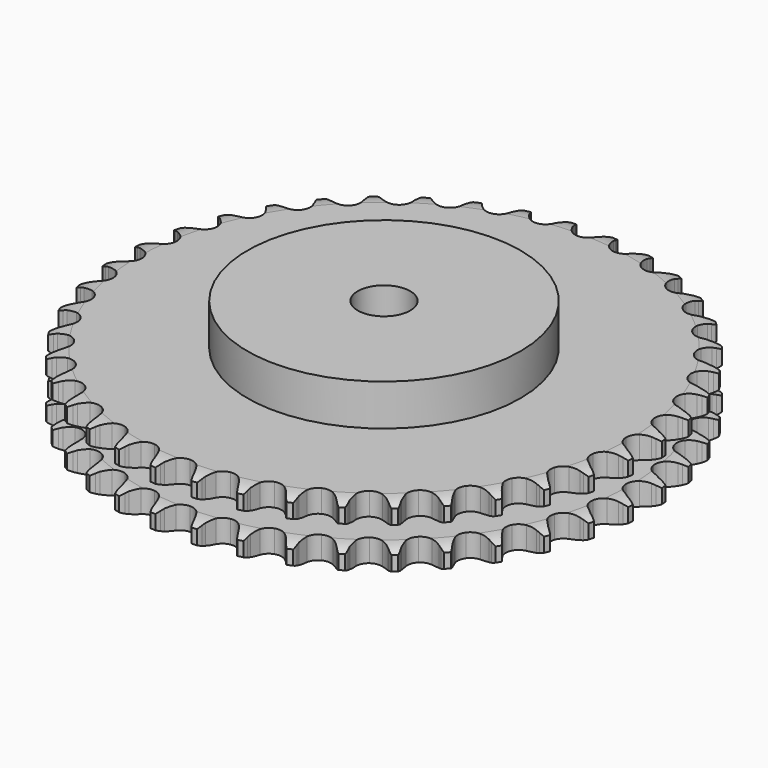
from build123d import *

# Parameters (mm, degrees)
PAD_DEPTH         = 30.3
SKETCH001_R       = 65
PAD001_DEPTH      = 50
SKETCH002_R       = 12.5
POCKET_DEPTH      = 0.001
POCKET_DEPTH_BACK = 50.001


with BuildPart() as part:
    # Sprocket → Pad (new body)
    with BuildSketch(Plane.XY):
        with BuildLine():
            ThreePointArc((-10.000443, 127.067676), (-8.616293, 125.369452), (-7.644652, 123.405845))
            Line((-7.644652, 123.405845), (-7.056217, 121.780312))
            ThreePointArc((-7.056217, 121.780312), (-6.126662, 119.69739), (-4.906159, 117.770471))
            ThreePointArc((-4.906159, 117.770471), (-2.747075, 115.950742), (0, 115.297563))
            ThreePointArc((0, 115.297563), (2.747075, 115.950742), (4.906159, 117.770471))
            ThreePointArc((4.906159, 117.770471), (6.126662, 119.69739), (7.056217, 121.780312))
            Line((7.056217, 121.780312), (7.644652, 123.405845))
            ThreePointArc((7.644652, 123.405845), (8.616293, 125.369452), (10.000443, 127.067676))
            ThreePointArc((10.000443, 127.067676), (11.101891, 125.173831), (11.754394, 123.082401))
            Line((11.754394, 123.082401), (12.081294, 121.38483))
            ThreePointArc((12.081294, 121.38483), (12.673565, 119.182137), (13.577604, 117.088014))
            ThreePointArc((13.577604, 117.088014), (15.425439, 114.952933), (18.036513, 113.878059))
            ThreePointArc((18.036513, 113.878059), (20.851946, 114.093459), (23.269117, 115.553029))
            Line((23.269117, 115.553029), (26.019982, 119.177159))
            ThreePointArc((26.019982, 119.177159), (26.416953, 119.945358), (26.855461, 120.690627))
            ThreePointArc((26.855461, 120.690627), (28.122315, 122.478061), (29.755085, 123.938849))
            ThreePointArc((29.755085, 123.938849), (30.54671, 121.896015), (30.864007, 119.728261))
            Line((30.864007, 119.728261), (30.921325, 118.000451))
            ThreePointArc((30.921325, 118.000451), (31.161726, 115.732225), (31.727042, 113.522461))
            ThreePointArc((31.727042, 113.522461), (33.218127, 111.124602), (35.628906, 109.654499))
            ThreePointArc((35.628906, 109.654499), (38.443373, 109.426816), (41.059112, 110.490288))
            Line((41.059112, 110.490288), (44.343048, 113.639468))
            ThreePointArc((44.343048, 113.639468), (44.855304, 114.33611), (45.404999, 115.003606))
            ThreePointArc((45.404999, 115.003606), (46.935873, 116.570853), (48.777058, 117.758235))
            ThreePointArc((48.777058, 117.758235), (49.239367, 115.616715), (49.213646, 113.426013))
            Line((49.213646, 113.426013), (48.999969, 111.710508))
            ThreePointArc((48.999969, 111.710508), (48.882582, 109.432601), (49.095255, 107.161608))
            ThreePointArc((49.095255, 107.161608), (50.192874, 104.560014), (52.343998, 102.730881))
            ThreePointArc((52.343998, 102.730881), (55.088197, 102.065722), (57.838095, 102.706909))
            Line((57.838095, 102.706909), (61.574241, 105.303597))
            ThreePointArc((61.574241, 105.303597), (62.189169, 105.911527), (62.836516, 106.484814))
            ThreePointArc((62.836516, 106.484814), (64.593713, 107.793285), (66.597978, 108.678023))
            ThreePointArc((66.597978, 108.678023), (66.719588, 106.490547), (66.351482, 104.33084))
            Line((66.351482, 104.33084), (65.872072, 102.669883))
            ThreePointArc((65.872072, 102.669883), (65.399787, 100.438384), (65.25458, 98.162081))
            ThreePointArc((65.25458, 98.162081), (65.931706, 95.420811), (67.770207, 93.277688))
            ThreePointArc((67.770207, 93.277688), (70.376566, 92.191431), (73.192913, 92.394545))
            Line((73.192913, 92.394545), (77.289271, 94.374802))
            ThreePointArc((77.289271, 94.374802), (77.99173, 94.879051), (78.720789, 95.344012))
            ThreePointArc((78.720789, 95.344012), (80.661042, 96.361487), (82.779035, 96.921797))
            ThreePointArc((82.779035, 96.921797), (82.556951, 94.742229), (81.855525, 92.666695))
            Line((81.855525, 92.666695), (81.122186, 91.101184))
            ThreePointArc((81.122186, 91.101184), (80.306632, 88.97104), (79.80712, 86.745478))
            ThreePointArc((79.80712, 86.745478), (80.047081, 83.932031), (81.527689, 81.527689))
            ThreePointArc((81.527689, 81.527689), (83.932031, 80.047081), (86.745478, 79.80712))
            Line((86.745478, 79.80712), (91.101184, 81.122186))
            ThreePointArc((91.101184, 81.122186), (91.873876, 81.510338), (92.666695, 81.855525))
            ThreePointArc((92.666695, 81.855525), (94.742229, 82.556951), (96.921797, 82.779035))
            ThreePointArc((96.921797, 82.779035), (96.361487, 80.661042), (95.344012, 78.720789))
            Line((95.344012, 78.720789), (94.374802, 77.289271))
            ThreePointArc((94.374802, 77.289271), (93.236061, 75.312934), (92.394545, 73.192913))
            ThreePointArc((92.394545, 73.192913), (92.191431, 70.376566), (93.277688, 67.770207))
            ThreePointArc((93.277688, 67.770207), (95.420811, 65.931706), (98.162081, 65.25458))
            Line((98.162081, 65.25458), (102.669883, 65.872072))
            ThreePointArc((102.669883, 65.872072), (103.493782, 66.13457), (104.33084, 66.351482))
            ThreePointArc((104.33084, 66.351482), (106.490547, 66.719588), (108.678023, 66.597978))
            ThreePointArc((108.678023, 66.597978), (107.793285, 64.593713), (106.484814, 62.836516))
            Line((106.484814, 62.836516), (105.303597, 61.574241))
            ThreePointArc((105.303597, 61.574241), (103.869709, 59.800373), (102.706909, 57.838095))
            ThreePointArc((102.706909, 57.838095), (102.065722, 55.088197), (102.730881, 52.343998))
            ThreePointArc((102.730881, 52.343998), (104.560014, 50.192874), (107.161608, 49.095255))
            Line((107.161608, 49.095255), (111.710508, 48.999969))
            ThreePointArc((111.710508, 48.999969), (112.565328, 49.130349), (113.426013, 49.213646))
            ThreePointArc((113.426013, 49.213646), (115.616715, 49.239367), (117.758235, 48.777058))
            ThreePointArc((117.758235, 48.777058), (116.570853, 46.935873), (115.003606, 45.404999))
            Line((115.003606, 45.404999), (113.639468, 44.343048))
            ThreePointArc((113.639468, 44.343048), (111.94574, 42.815329), (110.490288, 41.059112))
            ThreePointArc((110.490288, 41.059112), (109.426816, 38.443373), (109.654499, 35.628906))
            ThreePointArc((109.654499, 35.628906), (111.124602, 33.218127), (113.522461, 31.727042))
            Line((113.522461, 31.727042), (118.000451, 30.921325))
            ThreePointArc((118.000451, 30.921325), (118.865142, 30.916376), (119.728261, 30.864007))
            ThreePointArc((119.728261, 30.864007), (121.896015, 30.54671), (123.938849, 29.755085))
            ThreePointArc((123.938849, 29.755085), (122.478061, 28.122315), (120.690627, 26.855461))
            Line((120.690627, 26.855461), (119.177159, 26.019982))
            ThreePointArc((119.177159, 26.019982), (117.265295, 24.776029), (115.553029, 23.269117))
            ThreePointArc((115.553029, 23.269117), (114.093459, 20.851946), (113.878059, 18.036513))
            ThreePointArc((113.878059, 18.036513), (114.952933, 15.425439), (117.088014, 13.577604))
            Line((117.088014, 13.577604), (121.38483, 12.081294))
            ThreePointArc((121.38483, 12.081294), (122.238102, 11.941139), (123.082401, 11.754394))
            ThreePointArc((123.082401, 11.754394), (125.173831, 11.101891), (127.067676, 10.000443))
            ThreePointArc((127.067676, 10.000443), (125.369452, 8.616293), (123.405845, 7.644652))
            Line((123.405845, 7.644652), (121.780312, 7.056217))
            ThreePointArc((121.780312, 7.056217), (119.69739, 6.126662), (117.770471, 4.906159))
            ThreePointArc((117.770471, 4.906159), (115.950742, 2.747075), (115.297563, 0))
            ThreePointArc((115.297563, 0), (115.950742, -2.747075), (117.770471, -4.906159))
            Line((117.770471, -4.906159), (121.780312, -7.056217))
            ThreePointArc((121.780312, -7.056217), (122.601154, -7.328128), (123.405845, -7.644652))
            ThreePointArc((123.405845, -7.644652), (125.369452, -8.616293), (127.067676, -10.000443))
            ThreePointArc((127.067676, -10.000443), (125.173831, -11.101891), (123.082401, -11.754394))
            Line((123.082401, -11.754394), (121.38483, -12.081294))
            ThreePointArc((121.38483, -12.081294), (119.182137, -12.673565), (117.088014, -13.577604))
            ThreePointArc((117.088014, -13.577604), (114.952933, -15.425439), (113.878059, -18.036513))
            ThreePointArc((113.878059, -18.036513), (114.093459, -20.851946), (115.553029, -23.269117))
            Line((115.553029, -23.269117), (119.177159, -26.019982))
            ThreePointArc((119.177159, -26.019982), (119.945358, -26.416953), (120.690627, -26.855461))
            ThreePointArc((120.690627, -26.855461), (122.478061, -28.122315), (123.938849, -29.755085))
            ThreePointArc((123.938849, -29.755085), (121.896015, -30.54671), (119.728261, -30.864007))
            Line((119.728261, -30.864007), (118.000451, -30.921325))
            ThreePointArc((118.000451, -30.921325), (115.732225, -31.161726), (113.522461, -31.727042))
            ThreePointArc((113.522461, -31.727042), (111.124602, -33.218127), (109.654499, -35.628906))
            ThreePointArc((109.654499, -35.628906), (109.426816, -38.443373), (110.490288, -41.059112))
            Line((110.490288, -41.059112), (113.639468, -44.343048))
            ThreePointArc((113.639468, -44.343048), (114.33611, -44.855304), (115.003606, -45.404999))
            ThreePointArc((115.003606, -45.404999), (116.570853, -46.935873), (117.758235, -48.777058))
            ThreePointArc((117.758235, -48.777058), (115.616715, -49.239367), (113.426013, -49.213646))
            Line((113.426013, -49.213646), (111.710508, -48.999969))
            ThreePointArc((111.710508, -48.999969), (109.432601, -48.882582), (107.161608, -49.095255))
            ThreePointArc((107.161608, -49.095255), (104.560014, -50.192874), (102.730881, -52.343998))
            ThreePointArc((102.730881, -52.343998), (102.065722, -55.088197), (102.706909, -57.838095))
            Line((102.706909, -57.838095), (105.303597, -61.574241))
            ThreePointArc((105.303597, -61.574241), (105.911527, -62.189169), (106.484814, -62.836516))
            ThreePointArc((106.484814, -62.836516), (107.793285, -64.593713), (108.678023, -66.597978))
            ThreePointArc((108.678023, -66.597978), (106.490547, -66.719588), (104.33084, -66.351482))
            Line((104.33084, -66.351482), (102.669883, -65.872072))
            ThreePointArc((102.669883, -65.872072), (100.438384, -65.399787), (98.162081, -65.25458))
            ThreePointArc((98.162081, -65.25458), (95.420811, -65.931706), (93.277688, -67.770207))
            ThreePointArc((93.277688, -67.770207), (92.191431, -70.376566), (92.394545, -73.192913))
            Line((92.394545, -73.192913), (94.374802, -77.289271))
            ThreePointArc((94.374802, -77.289271), (94.879051, -77.99173), (95.344012, -78.720789))
            ThreePointArc((95.344012, -78.720789), (96.361487, -80.661042), (96.921797, -82.779035))
            ThreePointArc((96.921797, -82.779035), (94.742229, -82.556951), (92.666695, -81.855525))
            Line((92.666695, -81.855525), (91.101184, -81.122186))
            ThreePointArc((91.101184, -81.122186), (88.97104, -80.306632), (86.745478, -79.80712))
            ThreePointArc((86.745478, -79.80712), (83.932031, -80.047081), (81.527689, -81.527689))
            ThreePointArc((81.527689, -81.527689), (80.047081, -83.932031), (79.80712, -86.745478))
            Line((79.80712, -86.745478), (81.122186, -91.101184))
            ThreePointArc((81.122186, -91.101184), (81.510338, -91.873876), (81.855525, -92.666695))
            ThreePointArc((81.855525, -92.666695), (82.556951, -94.742229), (82.779035, -96.921797))
            ThreePointArc((82.779035, -96.921797), (80.661042, -96.361487), (78.720789, -95.344012))
            Line((78.720789, -95.344012), (77.289271, -94.374802))
            ThreePointArc((77.289271, -94.374802), (75.312934, -93.236061), (73.192913, -92.394545))
            ThreePointArc((73.192913, -92.394545), (70.376566, -92.191431), (67.770207, -93.277688))
            ThreePointArc((67.770207, -93.277688), (65.931706, -95.420811), (65.25458, -98.162081))
            Line((65.25458, -98.162081), (65.872072, -102.669883))
            ThreePointArc((65.872072, -102.669883), (66.13457, -103.493782), (66.351482, -104.33084))
            ThreePointArc((66.351482, -104.33084), (66.719588, -106.490547), (66.597978, -108.678023))
            ThreePointArc((66.597978, -108.678023), (64.593713, -107.793285), (62.836516, -106.484814))
            Line((62.836516, -106.484814), (61.574241, -105.303597))
            ThreePointArc((61.574241, -105.303597), (59.800373, -103.869709), (57.838095, -102.706909))
            ThreePointArc((57.838095, -102.706909), (55.088197, -102.065722), (52.343998, -102.730881))
            ThreePointArc((52.343998, -102.730881), (50.192874, -104.560014), (49.095255, -107.161608))
            Line((49.095255, -107.161608), (48.999969, -111.710508))
            ThreePointArc((48.999969, -111.710508), (49.130349, -112.565328), (49.213646, -113.426013))
            ThreePointArc((49.213646, -113.426013), (49.239367, -115.616715), (48.777058, -117.758235))
            ThreePointArc((48.777058, -117.758235), (46.935873, -116.570853), (45.404999, -115.003606))
            Line((45.404999, -115.003606), (44.343048, -113.639468))
            ThreePointArc((44.343048, -113.639468), (42.815329, -111.94574), (41.059112, -110.490288))
            ThreePointArc((41.059112, -110.490288), (38.443373, -109.426816), (35.628906, -109.654499))
            ThreePointArc((35.628906, -109.654499), (33.218127, -111.124602), (31.727042, -113.522461))
            Line((31.727042, -113.522461), (30.921325, -118.000451))
            ThreePointArc((30.921325, -118.000451), (30.916376, -118.865142), (30.864007, -119.728261))
            ThreePointArc((30.864007, -119.728261), (30.54671, -121.896015), (29.755085, -123.938849))
            ThreePointArc((29.755085, -123.938849), (28.122315, -122.478061), (26.855461, -120.690627))
            Line((26.855461, -120.690627), (26.019982, -119.177159))
            ThreePointArc((26.019982, -119.177159), (24.776029, -117.265295), (23.269117, -115.553029))
            ThreePointArc((23.269117, -115.553029), (20.851946, -114.093459), (18.036513, -113.878059))
            ThreePointArc((18.036513, -113.878059), (15.425439, -114.952933), (13.577604, -117.088014))
            Line((13.577604, -117.088014), (12.081294, -121.38483))
            ThreePointArc((12.081294, -121.38483), (11.941139, -122.238102), (11.754394, -123.082401))
            ThreePointArc((11.754394, -123.082401), (11.101891, -125.173831), (10.000443, -127.067676))
            ThreePointArc((10.000443, -127.067676), (8.616293, -125.369452), (7.644652, -123.405845))
            Line((7.644652, -123.405845), (7.056217, -121.780312))
            ThreePointArc((7.056217, -121.780312), (6.126662, -119.69739), (4.906159, -117.770471))
            ThreePointArc((4.906159, -117.770471), (2.747075, -115.950742), (0, -115.297563))
            ThreePointArc((0, -115.297563), (-2.747075, -115.950742), (-4.906159, -117.770471))
            Line((-4.906159, -117.770471), (-7.056217, -121.780312))
            ThreePointArc((-7.056217, -121.780312), (-7.328128, -122.601154), (-7.644652, -123.405845))
            ThreePointArc((-7.644652, -123.405845), (-8.616293, -125.369452), (-10.000443, -127.067676))
            ThreePointArc((-10.000443, -127.067676), (-11.101891, -125.173831), (-11.754394, -123.082401))
            Line((-11.754394, -123.082401), (-12.081294, -121.38483))
            ThreePointArc((-12.081294, -121.38483), (-12.673565, -119.182137), (-13.577604, -117.088014))
            ThreePointArc((-13.577604, -117.088014), (-15.425439, -114.952933), (-18.036513, -113.878059))
            ThreePointArc((-18.036513, -113.878059), (-20.851946, -114.093459), (-23.269117, -115.553029))
            Line((-23.269117, -115.553029), (-26.019982, -119.177159))
            ThreePointArc((-26.019982, -119.177159), (-26.416953, -119.945358), (-26.855461, -120.690627))
            ThreePointArc((-26.855461, -120.690627), (-28.122315, -122.478061), (-29.755085, -123.938849))
            ThreePointArc((-29.755085, -123.938849), (-30.54671, -121.896015), (-30.864007, -119.728261))
            Line((-30.864007, -119.728261), (-30.921325, -118.000451))
            ThreePointArc((-30.921325, -118.000451), (-31.161726, -115.732225), (-31.727042, -113.522461))
            ThreePointArc((-31.727042, -113.522461), (-33.218127, -111.124602), (-35.628906, -109.654499))
            ThreePointArc((-35.628906, -109.654499), (-38.443373, -109.426816), (-41.059112, -110.490288))
            Line((-41.059112, -110.490288), (-44.343048, -113.639468))
            ThreePointArc((-44.343048, -113.639468), (-44.855304, -114.33611), (-45.404999, -115.003606))
            ThreePointArc((-45.404999, -115.003606), (-46.935873, -116.570853), (-48.777058, -117.758235))
            ThreePointArc((-48.777058, -117.758235), (-49.239367, -115.616715), (-49.213646, -113.426013))
            Line((-49.213646, -113.426013), (-48.999969, -111.710508))
            ThreePointArc((-48.999969, -111.710508), (-48.882582, -109.432601), (-49.095255, -107.161608))
            ThreePointArc((-49.095255, -107.161608), (-50.192874, -104.560014), (-52.343998, -102.730881))
            ThreePointArc((-52.343998, -102.730881), (-55.088197, -102.065722), (-57.838095, -102.706909))
            Line((-57.838095, -102.706909), (-61.574241, -105.303597))
            ThreePointArc((-61.574241, -105.303597), (-62.189169, -105.911527), (-62.836516, -106.484814))
            ThreePointArc((-62.836516, -106.484814), (-64.593713, -107.793285), (-66.597978, -108.678023))
            ThreePointArc((-66.597978, -108.678023), (-66.719588, -106.490547), (-66.351482, -104.33084))
            Line((-66.351482, -104.33084), (-65.872072, -102.669883))
            ThreePointArc((-65.872072, -102.669883), (-65.399787, -100.438384), (-65.25458, -98.162081))
            ThreePointArc((-65.25458, -98.162081), (-65.931706, -95.420811), (-67.770207, -93.277688))
            ThreePointArc((-67.770207, -93.277688), (-70.376566, -92.191431), (-73.192913, -92.394545))
            Line((-73.192913, -92.394545), (-77.289271, -94.374802))
            ThreePointArc((-77.289271, -94.374802), (-77.99173, -94.879051), (-78.720789, -95.344012))
            ThreePointArc((-78.720789, -95.344012), (-80.661042, -96.361487), (-82.779035, -96.921797))
            ThreePointArc((-82.779035, -96.921797), (-82.556951, -94.742229), (-81.855525, -92.666695))
            Line((-81.855525, -92.666695), (-81.122186, -91.101184))
            ThreePointArc((-81.122186, -91.101184), (-80.306632, -88.97104), (-79.80712, -86.745478))
            ThreePointArc((-79.80712, -86.745478), (-80.047081, -83.932031), (-81.527689, -81.527689))
            ThreePointArc((-81.527689, -81.527689), (-83.932031, -80.047081), (-86.745478, -79.80712))
            Line((-86.745478, -79.80712), (-91.101184, -81.122186))
            ThreePointArc((-91.101184, -81.122186), (-91.873876, -81.510338), (-92.666695, -81.855525))
            ThreePointArc((-92.666695, -81.855525), (-94.742229, -82.556951), (-96.921797, -82.779035))
            ThreePointArc((-96.921797, -82.779035), (-96.361487, -80.661042), (-95.344012, -78.720789))
            Line((-95.344012, -78.720789), (-94.374802, -77.289271))
            ThreePointArc((-94.374802, -77.289271), (-93.236061, -75.312934), (-92.394545, -73.192913))
            ThreePointArc((-92.394545, -73.192913), (-92.191431, -70.376566), (-93.277688, -67.770207))
            ThreePointArc((-93.277688, -67.770207), (-95.420811, -65.931706), (-98.162081, -65.25458))
            Line((-98.162081, -65.25458), (-102.669883, -65.872072))
            ThreePointArc((-102.669883, -65.872072), (-103.493782, -66.13457), (-104.33084, -66.351482))
            ThreePointArc((-104.33084, -66.351482), (-106.490547, -66.719588), (-108.678023, -66.597978))
            ThreePointArc((-108.678023, -66.597978), (-107.793285, -64.593713), (-106.484814, -62.836516))
            Line((-106.484814, -62.836516), (-105.303597, -61.574241))
            ThreePointArc((-105.303597, -61.574241), (-103.869709, -59.800373), (-102.706909, -57.838095))
            ThreePointArc((-102.706909, -57.838095), (-102.065722, -55.088197), (-102.730881, -52.343998))
            ThreePointArc((-102.730881, -52.343998), (-104.560014, -50.192874), (-107.161608, -49.095255))
            Line((-107.161608, -49.095255), (-111.710508, -48.999969))
            ThreePointArc((-111.710508, -48.999969), (-112.565328, -49.130349), (-113.426013, -49.213646))
            ThreePointArc((-113.426013, -49.213646), (-115.616715, -49.239367), (-117.758235, -48.777058))
            ThreePointArc((-117.758235, -48.777058), (-116.570853, -46.935873), (-115.003606, -45.404999))
            Line((-115.003606, -45.404999), (-113.639468, -44.343048))
            ThreePointArc((-113.639468, -44.343048), (-111.94574, -42.815329), (-110.490288, -41.059112))
            ThreePointArc((-110.490288, -41.059112), (-109.426816, -38.443373), (-109.654499, -35.628906))
            ThreePointArc((-109.654499, -35.628906), (-111.124602, -33.218127), (-113.522461, -31.727042))
            Line((-113.522461, -31.727042), (-118.000451, -30.921325))
            ThreePointArc((-118.000451, -30.921325), (-118.865142, -30.916376), (-119.728261, -30.864007))
            ThreePointArc((-119.728261, -30.864007), (-121.896015, -30.54671), (-123.938849, -29.755085))
            ThreePointArc((-123.938849, -29.755085), (-122.478061, -28.122315), (-120.690627, -26.855461))
            Line((-120.690627, -26.855461), (-119.177159, -26.019982))
            ThreePointArc((-119.177159, -26.019982), (-117.265295, -24.776029), (-115.553029, -23.269117))
            ThreePointArc((-115.553029, -23.269117), (-114.093459, -20.851946), (-113.878059, -18.036513))
            ThreePointArc((-113.878059, -18.036513), (-114.952933, -15.425439), (-117.088014, -13.577604))
            Line((-117.088014, -13.577604), (-121.38483, -12.081294))
            ThreePointArc((-121.38483, -12.081294), (-122.238102, -11.941139), (-123.082401, -11.754394))
            ThreePointArc((-123.082401, -11.754394), (-125.173831, -11.101891), (-127.067676, -10.000443))
            ThreePointArc((-127.067676, -10.000443), (-125.369452, -8.616293), (-123.405845, -7.644652))
            Line((-123.405845, -7.644652), (-121.780312, -7.056217))
            ThreePointArc((-121.780312, -7.056217), (-119.69739, -6.126662), (-117.770471, -4.906159))
            ThreePointArc((-117.770471, -4.906159), (-115.950742, -2.747075), (-115.297563, 0))
            ThreePointArc((-115.297563, 0), (-115.950742, 2.747075), (-117.770471, 4.906159))
            Line((-117.770471, 4.906159), (-121.780312, 7.056217))
            ThreePointArc((-121.780312, 7.056217), (-122.601154, 7.328128), (-123.405845, 7.644652))
            ThreePointArc((-123.405845, 7.644652), (-125.369452, 8.616293), (-127.067676, 10.000443))
            ThreePointArc((-127.067676, 10.000443), (-125.173831, 11.101891), (-123.082401, 11.754394))
            Line((-123.082401, 11.754394), (-121.38483, 12.081294))
            ThreePointArc((-121.38483, 12.081294), (-119.182137, 12.673565), (-117.088014, 13.577604))
            ThreePointArc((-117.088014, 13.577604), (-114.952933, 15.425439), (-113.878059, 18.036513))
            ThreePointArc((-113.878059, 18.036513), (-114.093459, 20.851946), (-115.553029, 23.269117))
            Line((-115.553029, 23.269117), (-119.177159, 26.019982))
            ThreePointArc((-119.177159, 26.019982), (-119.945358, 26.416953), (-120.690627, 26.855461))
            ThreePointArc((-120.690627, 26.855461), (-122.478061, 28.122315), (-123.938849, 29.755085))
            ThreePointArc((-123.938849, 29.755085), (-121.896015, 30.54671), (-119.728261, 30.864007))
            Line((-119.728261, 30.864007), (-118.000451, 30.921325))
            ThreePointArc((-118.000451, 30.921325), (-115.732225, 31.161726), (-113.522461, 31.727042))
            ThreePointArc((-113.522461, 31.727042), (-111.124602, 33.218127), (-109.654499, 35.628906))
            ThreePointArc((-109.654499, 35.628906), (-109.426816, 38.443373), (-110.490288, 41.059112))
            Line((-110.490288, 41.059112), (-113.639468, 44.343048))
            ThreePointArc((-113.639468, 44.343048), (-114.33611, 44.855304), (-115.003606, 45.404999))
            ThreePointArc((-115.003606, 45.404999), (-116.570853, 46.935873), (-117.758235, 48.777058))
            ThreePointArc((-117.758235, 48.777058), (-115.616715, 49.239367), (-113.426013, 49.213646))
            Line((-113.426013, 49.213646), (-111.710508, 48.999969))
            ThreePointArc((-111.710508, 48.999969), (-109.432601, 48.882582), (-107.161608, 49.095255))
            ThreePointArc((-107.161608, 49.095255), (-104.560014, 50.192874), (-102.730881, 52.343998))
            ThreePointArc((-102.730881, 52.343998), (-102.065722, 55.088197), (-102.706909, 57.838095))
            Line((-102.706909, 57.838095), (-105.303597, 61.574241))
            ThreePointArc((-105.303597, 61.574241), (-105.911527, 62.189169), (-106.484814, 62.836516))
            ThreePointArc((-106.484814, 62.836516), (-107.793285, 64.593713), (-108.678023, 66.597978))
            ThreePointArc((-108.678023, 66.597978), (-106.490547, 66.719588), (-104.33084, 66.351482))
            Line((-104.33084, 66.351482), (-102.669883, 65.872072))
            ThreePointArc((-102.669883, 65.872072), (-100.438384, 65.399787), (-98.162081, 65.25458))
            ThreePointArc((-98.162081, 65.25458), (-95.420811, 65.931706), (-93.277688, 67.770207))
            ThreePointArc((-93.277688, 67.770207), (-92.191431, 70.376566), (-92.394545, 73.192913))
            Line((-92.394545, 73.192913), (-94.374802, 77.289271))
            ThreePointArc((-94.374802, 77.289271), (-94.879051, 77.99173), (-95.344012, 78.720789))
            ThreePointArc((-95.344012, 78.720789), (-96.361487, 80.661042), (-96.921797, 82.779035))
            ThreePointArc((-96.921797, 82.779035), (-94.742229, 82.556951), (-92.666695, 81.855525))
            Line((-92.666695, 81.855525), (-91.101184, 81.122186))
            ThreePointArc((-91.101184, 81.122186), (-88.97104, 80.306632), (-86.745478, 79.80712))
            ThreePointArc((-86.745478, 79.80712), (-83.932031, 80.047081), (-81.527689, 81.527689))
            ThreePointArc((-81.527689, 81.527689), (-80.047081, 83.932031), (-79.80712, 86.745478))
            Line((-79.80712, 86.745478), (-81.122186, 91.101184))
            ThreePointArc((-81.122186, 91.101184), (-81.510338, 91.873876), (-81.855525, 92.666695))
            ThreePointArc((-81.855525, 92.666695), (-82.556951, 94.742229), (-82.779035, 96.921797))
            ThreePointArc((-82.779035, 96.921797), (-80.661042, 96.361487), (-78.720789, 95.344012))
            Line((-78.720789, 95.344012), (-77.289271, 94.374802))
            ThreePointArc((-77.289271, 94.374802), (-75.312934, 93.236061), (-73.192913, 92.394545))
            ThreePointArc((-73.192913, 92.394545), (-70.376566, 92.191431), (-67.770207, 93.277688))
            ThreePointArc((-67.770207, 93.277688), (-65.931706, 95.420811), (-65.25458, 98.162081))
            Line((-65.25458, 98.162081), (-65.872072, 102.669883))
            ThreePointArc((-65.872072, 102.669883), (-66.13457, 103.493782), (-66.351482, 104.33084))
            ThreePointArc((-66.351482, 104.33084), (-66.719588, 106.490547), (-66.597978, 108.678023))
            ThreePointArc((-66.597978, 108.678023), (-64.593713, 107.793285), (-62.836516, 106.484814))
            Line((-62.836516, 106.484814), (-61.574241, 105.303597))
            ThreePointArc((-61.574241, 105.303597), (-59.800373, 103.869709), (-57.838095, 102.706909))
            ThreePointArc((-57.838095, 102.706909), (-55.088197, 102.065722), (-52.343998, 102.730881))
            ThreePointArc((-52.343998, 102.730881), (-50.192874, 104.560014), (-49.095255, 107.161608))
            Line((-49.095255, 107.161608), (-48.999969, 111.710508))
            ThreePointArc((-48.999969, 111.710508), (-49.130349, 112.565328), (-49.213646, 113.426013))
            ThreePointArc((-49.213646, 113.426013), (-49.239367, 115.616715), (-48.777058, 117.758235))
            ThreePointArc((-48.777058, 117.758235), (-46.935873, 116.570853), (-45.404999, 115.003606))
            Line((-45.404999, 115.003606), (-44.343048, 113.639468))
            ThreePointArc((-44.343048, 113.639468), (-42.815329, 111.94574), (-41.059112, 110.490288))
            ThreePointArc((-41.059112, 110.490288), (-38.443373, 109.426816), (-35.628906, 109.654499))
            ThreePointArc((-35.628906, 109.654499), (-33.218127, 111.124602), (-31.727042, 113.522461))
            Line((-31.727042, 113.522461), (-30.921325, 118.000451))
            ThreePointArc((-30.921325, 118.000451), (-30.916376, 118.865142), (-30.864007, 119.728261))
            ThreePointArc((-30.864007, 119.728261), (-30.54671, 121.896015), (-29.755085, 123.938849))
            ThreePointArc((-29.755085, 123.938849), (-28.122315, 122.478061), (-26.855461, 120.690627))
            Line((-26.855461, 120.690627), (-26.019982, 119.177159))
            ThreePointArc((-26.019982, 119.177159), (-24.776029, 117.265295), (-23.269117, 115.553029))
            ThreePointArc((-23.269117, 115.553029), (-20.851946, 114.093459), (-18.036513, 113.878059))
            ThreePointArc((-18.036513, 113.878059), (-15.425439, 114.952933), (-13.577604, 117.088014))
            Line((-13.577604, 117.088014), (-12.081294, 121.38483))
            ThreePointArc((-12.081294, 121.38483), (-11.941139, 122.238102), (-11.754394, 123.082401))
            ThreePointArc((-11.754394, 123.082401), (-11.101891, 125.173831), (-10.000443, 127.067676))
        make_face()
    extrude(amount=PAD_DEPTH)

    # Sketch → Groove (revolve, cut)
    with BuildSketch(Plane.XZ):
        with BuildLine():
            ThreePointArc((117.164719, 0), (121.523618, 0.506758), (125.65, 2))
            Line((125.65, 2), (125.65, 8.8))
            ThreePointArc((125.65, 8.8), (121.523618, 10.293242), (117.164719, 10.8))
            Line((65, 10.8), (117.164719, 10.8))
            Line((65, 19.5), (65, 10.8))
            Line((117.164719, 19.5), (65, 19.5))
            ThreePointArc((117.164719, 19.5), (121.523618, 20.006758), (125.65, 21.5))
            Line((125.65, 21.5), (125.65, 28.3))
            ThreePointArc((125.65, 28.3), (121.523618, 29.793242), (117.164719, 30.3))
            Line((117.164719, 30.3), (135.65, 30.3))
            Line((135.65, 30.3), (135.65, 0))
            Line((117.164719, 0), (135.65, 0))
        make_face()
    revolve(axis=Axis((0, 0, 0), (0, 0, 1)), mode=Mode.SUBTRACT)

    # Sketch001 → Pad001 (join)
    with BuildSketch(Plane.XY):
        Circle(SKETCH001_R)
    extrude(amount=PAD001_DEPTH)

    # Sketch002 → Pocket (cut, two sides)
    with BuildSketch(Plane.XY) as pocket_sk:
        Circle(SKETCH002_R)
    extrude(amount=-POCKET_DEPTH, mode=Mode.SUBTRACT)
    extrude(pocket_sk.sketch, amount=POCKET_DEPTH_BACK, mode=Mode.SUBTRACT)


solid = part.part
